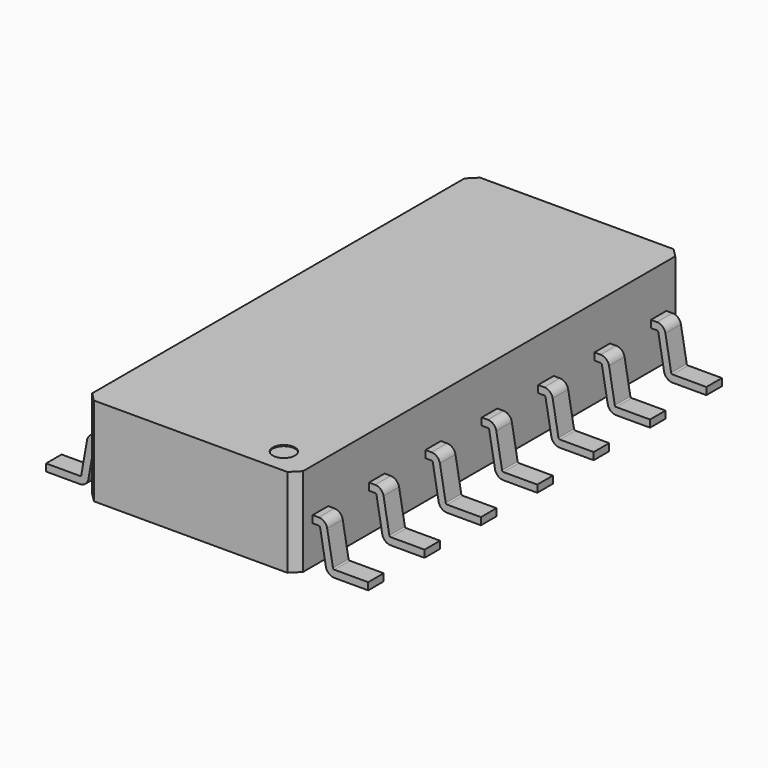
from build123d import *

# Parameters (mm, degrees)
PAD_DEPTH                = 1.6
SKETCH008_R              = 0.2
POCKET001_DEPTH          = 0.02
SKETCH010_W              = 0.35
SKETCH010_H              = 0.13
ARRAY_Y_COUNT            = 7
ARRAY_Y_PITCH            = 1.27
CLONE006_PLACEMENT_ANGLE = 180


with BuildPart() as obj1:
    # Sketch → Pad (new body)
    with BuildSketch(Plane.XY):
        Polygon((1.34, 9.843799), (4.827597, 9.843799), (4.983799, 9.687597), (4.983799, 1.3), (4.827597, 1.143799), (1.34, 1.143799), (1.183799, 1.3), (1.183799, 9.687597), align=None)
    extrude(amount=PAD_DEPTH)

    # Sketch008 (on Face10 of Pad) → Pocket001 (cut)
    with BuildSketch(Plane.XY.offset(1.6)):
        with Locations((4.4, 1.6)):
            Circle(SKETCH008_R)
    extrude(amount=-POCKET001_DEPTH, mode=Mode.SUBTRACT)


with BuildPart() as clone005:
    # Sweep: sweep along a path in Sketch009
    with BuildLine(Plane.XZ) as sweep_path:
        Line((8.02, 0.75), (8.13, 0.75))
        ThreePointArc((8.13, 0.75), (8.187851, 0.728944), (8.218633, 0.675628))
        Line((8.218633, 0.675628), (8.322822, 0.084744))
        ThreePointArc((8.322822, 0.084744), (8.353603, 0.031428), (8.411454, 0.010372))
        Line((8.411454, 0.010372), (9.021454, 0.010372))
    # Sketch010 → Sweep (sweep)
    with BuildSketch(Plane(origin=(9.021454, 0, 0.010372), x_dir=(0, 1, 0), z_dir=(1, 0, 0))):
        Rectangle(SKETCH010_W, SKETCH010_H)
    sweep(path=sweep_path.line, is_frenet=True)


with BuildPart() as clone005_1:
    # Sweep placement: moved
    add(clone005.part.moved(Location((0.003679, 1.69235, 0))))

    # Array Y: Clone005 ×7


with BuildPart() as clone005_2:
    add(clone005_1.part)
    with Locations(*[(0, i * ARRAY_Y_PITCH, 0) for i in range(1, ARRAY_Y_COUNT)]):
        add(clone005_1.part)


with BuildPart() as clone005_3:
    # Array placement: moved
    add(clone005_2.part.moved(Location((-3.04, 0, 0))))


with BuildPart() as soic_n:
    # Clone006 base: copy of Clone005
    add(clone005_3.part)


with BuildPart() as soic_n_1:
    # Clone006 placement: moved
    add(soic_n.part.moved(Location((6.168, 11, 0))).rotate(Axis((6.168, 11, 0), (0, 0, 1)), CLONE006_PLACEMENT_ANGLE))

    # Fusion009: union obj1, Clone005
    add(obj1.part)
    add(clone005_3.part)


solid = soic_n_1.part
